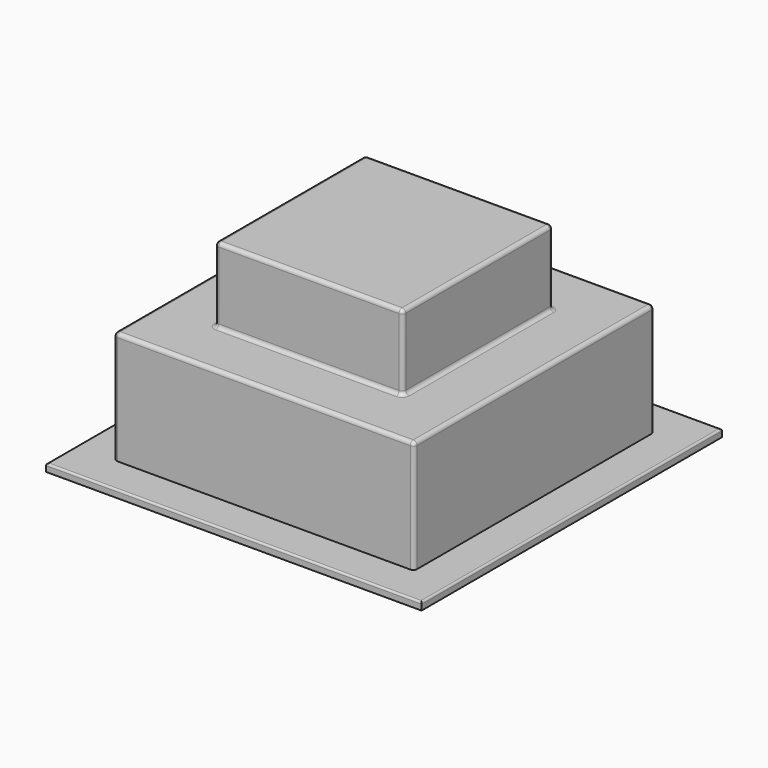
from build123d import *

# Parameters (mm, degrees)
F0_W      = 100
F0_H      = 100
F1_DEPTH  = 2
F2_R      = 0.5
F4_W      = 80
F4_H      = 80
F5_DEPTH  = 30
F6_R      = 1
F7_R      = 1
F8_W      = 50
F8_H      = 50
F9_DEPTH  = 20
F10_R     = 1
F11_W     = 40
F11_H     = 40
F12_DEPTH = 42


with BuildPart() as f1:
    # F0 (on Top) → F1 (new body)
    with BuildSketch(Plane.XY):
        Rectangle(F0_W, F0_H)
    extrude(amount=F1_DEPTH)

    # F2
    f2_edges = [f1.edges().sort_by_distance(p)[0] for p in [
        (50, 0, 2),
        (0, 50, 2),
        (-50, 0, 2),
        (0, -50, 2),
    ]]
    fillet(f2_edges, radius=F2_R)

    # F4 (on offset) → F5 (join)
    with BuildSketch(Plane.XY.offset(2)):
        Rectangle(F4_W, F4_H)
    extrude(amount=F5_DEPTH)

    # F6
    f6_edges = [f1.edges().sort_by_distance(p)[0] for p in [
        (-40, -40, 17),
        (40, -40, 17),
        (40, 40, 17),
        (-40, 40, 17),
    ]]
    fillet(f6_edges, radius=F6_R)

    # F7
    f7_edges = [f1.edges().sort_by_distance(p)[0] for p in [
        (40, 0, 32),
        (39.707107, -39.707107, 32),
        (39.707107, 39.707107, 32),
        (0, -40, 32),
        (0, 40, 32),
        (-39.707107, -39.707107, 32),
        (-39.707107, 39.707107, 32),
        (-40, 0, 32),
    ]]
    fillet(f7_edges, radius=F7_R)

    # F8 (on face) → F9 (join)
    with BuildSketch(Plane.XY.offset(32)):
        Rectangle(F8_W, F8_H)
    extrude(amount=F9_DEPTH)

    # F10
    f10_edges = [f1.edges().sort_by_distance(p)[0] for p in [
        (-25, -25, 42),
        (25, -25, 42),
        (0, -25, 32),
        (0, -25, 52),
        (-25, 25, 42),
        (-25, 0, 32),
        (-25, 0, 52),
        (25, 0, 52),
        (0, 25, 52),
        (25, 25, 42),
        (25, 0, 32),
        (0, 25, 32),
    ]]
    fillet(f10_edges, radius=F10_R)

    # F11 (on face) → F12 (cut)
    with BuildSketch(Plane(origin=(0, 0, 0), x_dir=(1, 0, 0), z_dir=(0, 0, -1))):
        Rectangle(F11_W, F11_H)
    extrude(amount=-F12_DEPTH, mode=Mode.SUBTRACT)


solid = f1.part
